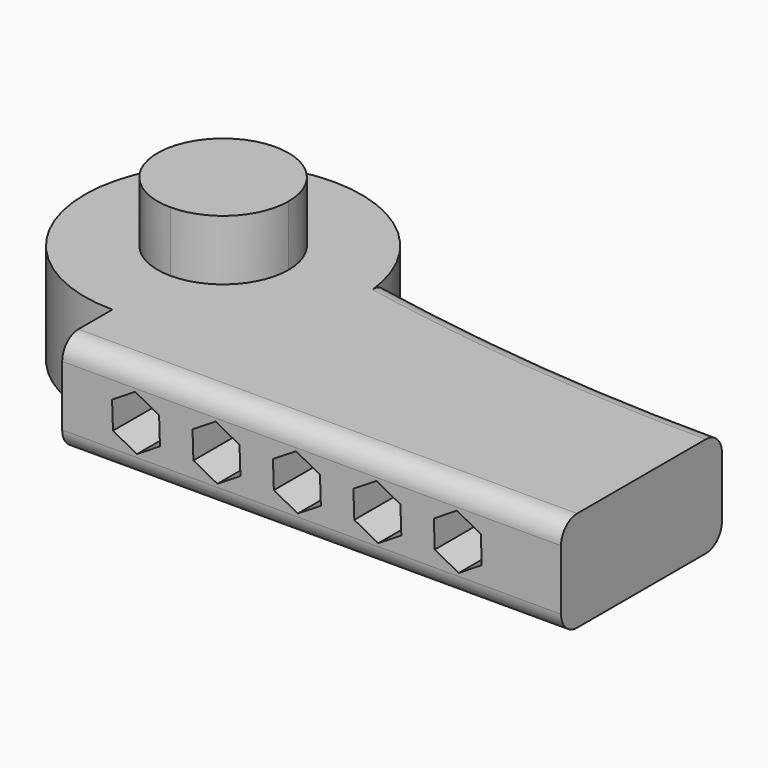
from build123d import *

# Parameters (mm, degrees)
F1_DEPTH      = 25
F2_DEPTH      = 40
F2_DEPTH_BACK = 20
F4_DEPTH      = 84.4041628775
F5_R          = 5


with BuildPart() as f1:
    # F0 (on Top) → F1 (new body)
    with BuildSketch(Plane.XY):
        with BuildLine():
            Line((-62.0106605823, -25), (62.0106605823, -25))
            Line((62.0106605823, -25), (62.0106605823, 25))
            Line((62.0106605823, 25), (-27.6074977048, 25))
            ThreePointArc((-27.6074977048, 25), (-37.6839508173, 0.6732902351), (-62.0106605823, -9.4031628775))
            Line((-62.0106605823, -9.4031628775), (-62.0106605823, -25))
        make_face()
        with BuildLine():
            Line((-27.6074977048, 25), (62.0106605823, 25))
            ThreePointArc((62.0106605823, 25), (16.3862035085, 27.2471495314), (-28.7966079142, 33.9668456737))
            ThreePointArc((-28.7966079142, 33.9668456737), (-27.9060708638, 29.5226735573), (-27.6074977048, 25))
        make_face()
        with BuildLine():
            ThreePointArc((-28.7966079142, 33.9668456737), (-89.3242603833, 45.9175735181), (-62.0106605823, -9.4031628775))
            Line((-62.0106605823, -9.4031628775), (-62.0106605823, 8.7209436981))
            ThreePointArc((-62.0106605823, 8.7209436981), (-78.1512656311, 27.1186181204), (-57.8094614837, 40.7276063092))
            ThreePointArc((-57.8094614837, 40.7276063092), (-43.3572727982, 37.1144708153), (-28.7966079142, 33.9668456737))
        make_face()
        with BuildLine():
            Line((-62.0106605823, 8.7209436981), (-62.0106605823, -9.4031628775))
            ThreePointArc((-62.0106605823, -9.4031628775), (-37.6839508173, 0.6732902351), (-27.6074977048, 25))
            Line((-27.6074977048, 25), (-45.7316042803, 25))
            ThreePointArc((-45.7316042803, 25), (-50.4996294799, 13.4889688976), (-62.0106605823, 8.7209436981))
        make_face()
        with BuildLine():
            Line((-45.7316042803, 25), (-27.6074977048, 25))
            ThreePointArc((-27.6074977048, 25), (-27.9060708638, 29.5226735573), (-28.7966079142, 33.9668456737))
            ThreePointArc((-28.7966079142, 33.9668456737), (-43.3572727982, 37.1144708153), (-57.8094614837, 40.7276063092))
            ThreePointArc((-57.8094614837, 40.7276063092), (-49.0994400601, 34.9150420428), (-45.7316042803, 25))
        make_face()
    extrude(amount=F1_DEPTH)

    # F0 (on Top) → F2 (join, two sides)
    with BuildSketch(Plane.XY) as f2_sk:
        with BuildLine():
            ThreePointArc((-57.8094614837, 40.7276063092), (-78.1512656311, 27.1186181204), (-62.0106605823, 8.7209436981))
            Line((-62.0106605823, 8.7209436981), (-62.0106605823, 25))
            Line((-62.0106605823, 25), (-45.7316042803, 25))
            ThreePointArc((-45.7316042803, 25), (-49.0994400601, 34.9150420428), (-57.8094614837, 40.7276063092))
        make_face()
        with BuildLine():
            Line((-62.0106605823, 25), (-62.0106605823, 8.7209436981))
            ThreePointArc((-62.0106605823, 8.7209436981), (-50.4996294799, 13.4889688976), (-45.7316042803, 25))
            Line((-45.7316042803, 25), (-62.0106605823, 25))
        make_face()
    extrude(amount=F2_DEPTH)
    extrude(f2_sk.sketch, amount=-F2_DEPTH_BACK)

    # F3 (on face) → F4 (cut, through all)
    with BuildSketch(Plane.XZ.offset(25)):
        Polygon((-43.4297714291, 5.7516291939), (-37.6987736764, 9.3219915203), (-37.9252992754, 16.0703623264), (-43.882822627, 19.2483708061), (-49.6138203798, 15.6780084797), (-49.3872947808, 8.9296376736), align=None)
        Polygon((-23.882822627, 19.2483708061), (-29.6138203798, 15.6780084797), (-29.3872947808, 8.9296376736), (-23.4297714291, 5.7516291939), (-17.6987736764, 9.3219915203), (-17.9252992754, 16.0703623264), align=None)
        Polygon((-3.882822627, 19.2483708061), (-9.6138203798, 15.6780084797), (-9.3872947808, 8.9296376736), (-3.4297714291, 5.7516291939), (2.3012263236, 9.3219915203), (2.0747007246, 16.0703623264), align=None)
        Polygon((16.117177373, 19.2483708061), (10.3861796202, 15.6780084797), (10.6127052192, 8.9296376736), (16.5702285709, 5.7516291939), (22.3012263236, 9.3219915203), (22.0747007246, 16.0703623264), align=None)
        Polygon((36.117177373, 19.2483708061), (30.3861796202, 15.6780084797), (30.6127052192, 8.9296376736), (36.5702285709, 5.7516291939), (42.3012263236, 9.3219915203), (42.0747007246, 16.0703623264), align=None)
    extrude(amount=-F4_DEPTH, mode=Mode.SUBTRACT)

    # F5
    f5_edges = [f1.edges().sort_by_distance(p)[0] for p in [
        (0, -25, 25),
        (0, -25, 0),
        (16.386204, 27.24715, 0),
        (16.386204, 27.24715, 25),
    ]]
    fillet(f5_edges, radius=F5_R)


solid = f1.part
